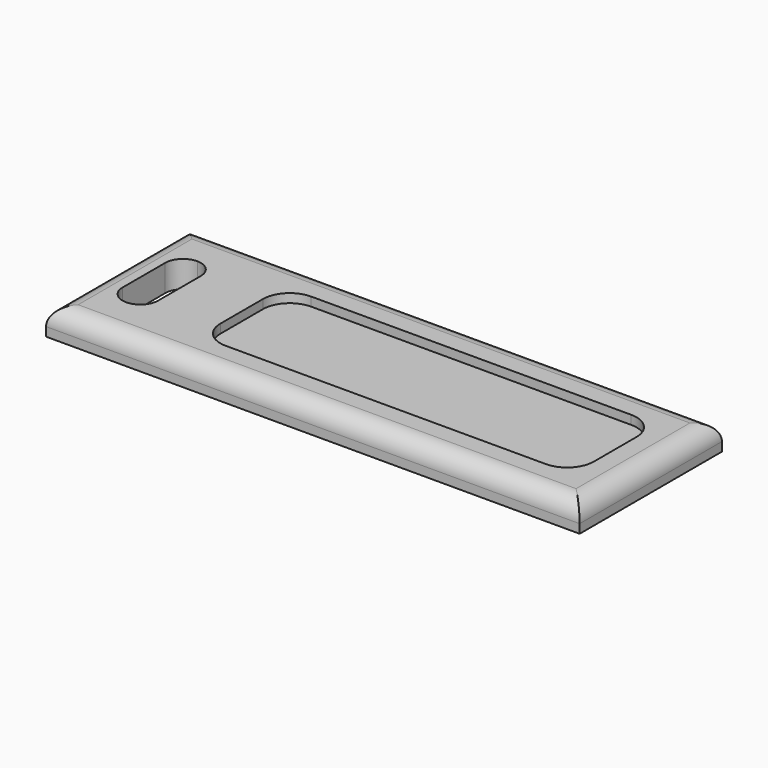
from build123d import *

# Parameters (mm, degrees)
F0_W     = 50
F0_H     = 20
F0_W_2   = 10
F1_DEPTH = 3
F3_DEPTH = 3
F6_R     = 2


with BuildPart() as f1:
    # F0 (on Top) → F1 (new body)
    with BuildSketch(Plane.XY):
        Rectangle(F0_W, F0_H)
        with Locations((-30, 0)):
            Rectangle(F0_W_2, F0_H)
        with BuildLine():
            ThreePointArc((-30, 5), (-28.585786, 4.414214), (-28, 3))
            Line((-28, 3), (-28, -3))
            ThreePointArc((-28, -3), (-28.585786, -4.414214), (-30, -5))
            ThreePointArc((-30, -5), (-31.414214, -4.414214), (-32, -3))
            Line((-32, -3), (-32, 3))
            ThreePointArc((-32, 3), (-31.414214, 4.414214), (-30, 5))
        make_face(mode=Mode.SUBTRACT)
    extrude(amount=F1_DEPTH)


with BuildPart() as f3:
    # F2 (on Top) → F3 (new body)
    with BuildSketch(Plane.XY):
        with BuildLine():
            Line((-18, -6), (18, -6))
            ThreePointArc((18, -6), (20.12132, -5.12132), (21, -3))
            Line((21, -3), (21, 3))
            ThreePointArc((21, 3), (20.12132, 5.12132), (18, 6))
            Line((18, 6), (-18, 6))
            ThreePointArc((-18, 6), (-20.12132, 5.12132), (-21, 3))
            Line((-21, 3), (-21, -3))
            ThreePointArc((-21, -3), (-20.12132, -5.12132), (-18, -6))
        make_face()
    extrude(amount=F3_DEPTH)


with BuildPart() as f3_1:
    # F4: moved
    add(f3.part.moved(Location((0, 0, 2))))


with BuildPart() as f1_1:
    add(f1.part)

    # F5: cut F3
    add(f3_1.part, mode=Mode.SUBTRACT)

    # F6
    f6_edges = [f1_1.edges().sort_by_distance(p)[0] for p in [
        (-35, 0, 3),
        (25, 0, 3),
        (-5, 10, 3),
        (-5, -10, 3),
    ]]
    fillet(f6_edges, radius=F6_R)


solid = f1_1.part
